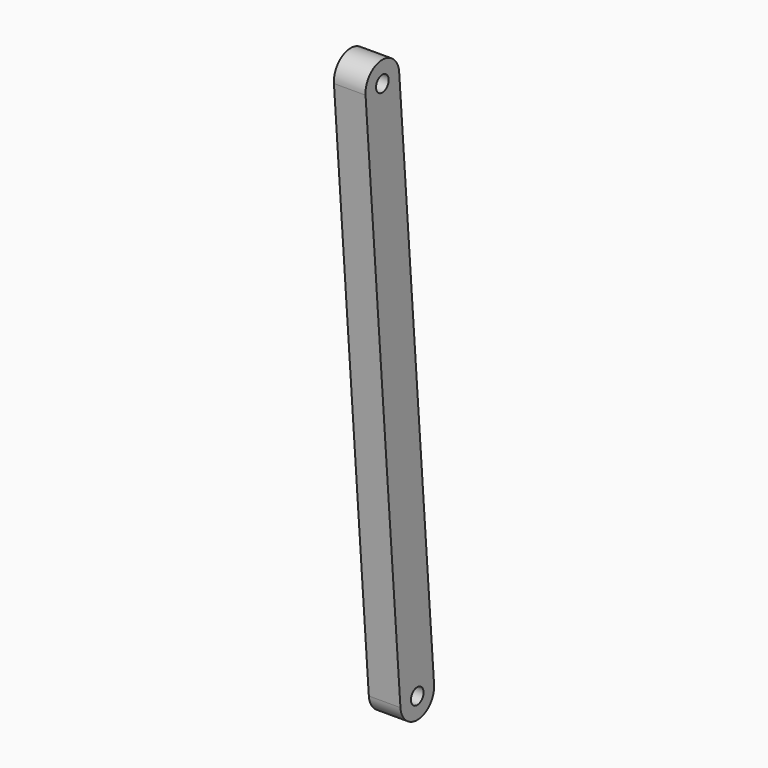
from build123d import *

# Parameters (mm, degrees)
F2_R     = 4.7625
F3_DEPTH = 19.05


with BuildPart() as f3:
    # F2 (on Right) → F3 (new body)
    with BuildSketch(Plane.YZ):
        with BuildLine():
            ThreePointArc((-763.367591, 592.334916), (-777.020603, 604.004332), (-788.690019, 590.35132))
            Line((-788.690019, 590.35132), (-762.407361, 254.829153))
            ThreePointArc((-762.407361, 254.829153), (-748.754349, 243.159737), (-737.084934, 256.81275))
            Line((-737.084934, 256.81275), (-763.367591, 592.334916))
        make_face()
        with Locations((-749.746147, 255.820951)):
            Circle(F2_R, mode=Mode.SUBTRACT)
        with Locations((-776.028805, 591.343118)):
            Circle(F2_R, mode=Mode.SUBTRACT)
    extrude(amount=F3_DEPTH)


solid = f3.part
